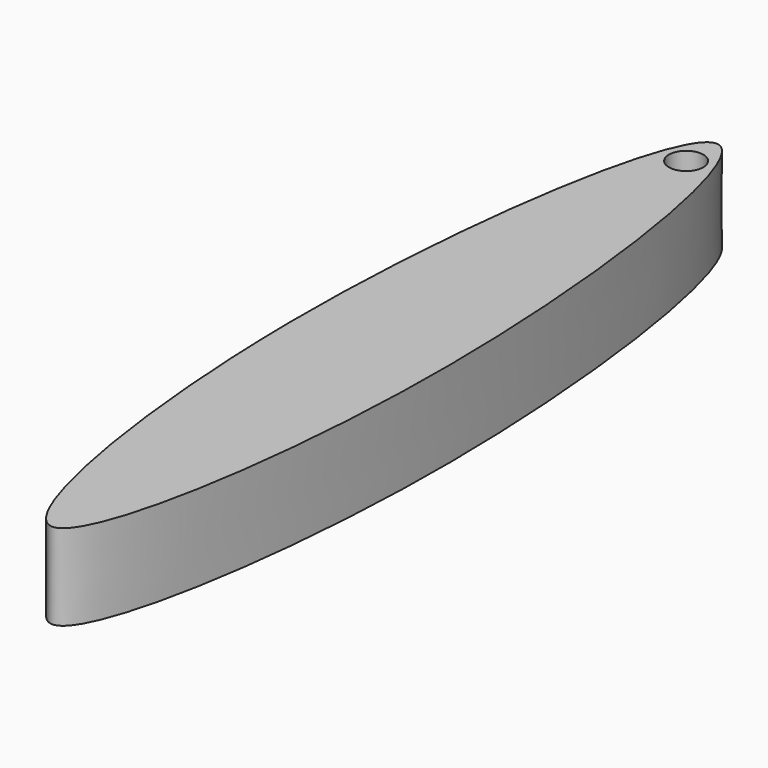
from build123d import *

# Parameters (mm, degrees)
F1_DEPTH = 3.175
F2_D     = 1.27


with BuildPart() as f1:
    # F0 (on Top) → F1 (new body)
    with BuildSketch(Plane.XY):
        with BuildLine():
            add(Edge.make_bspline(
                [(-2.6359715937, 0), (-2.6967500021, 7.9038265098), (1e-10, 24.8700869531), (3.9578895543, -0.0304729571), (1e-10, -21.163883673), (-2.5791253494, -7.3924748087), (-2.6359715937, 0)],
                knots=[0, 0, 0, 0, 0.2583574403, 0.5167148806, 0.7583574403, 1, 1, 1, 1], degree=3))
        make_face()
        with BuildLine():
            add(Edge.make_bspline(
                [(-2.6359715937, 0), (-2.6967500021, 7.9038265098), (1e-10, 24.8700869531), (3.9578895543, -0.0304729571), (1e-10, -21.163883673), (-2.5791253494, -7.3924748087), (-2.6359715937, 0)],
                knots=[0, 0, 0, 0, 0.2583574403, 0.5167148806, 0.7583574403, 1, 1, 1, 1], degree=3))
        make_face()
    extrude(amount=F1_DEPTH)

    # F2 (through all)
    with Locations(Plane(origin=(0, 0, 0), x_dir=(1, 0, 0), z_dir=(0, 0, -1))):
        with Locations((0, -14.9910049513)):
            Hole(F2_D / 2)


solid = f1.part
